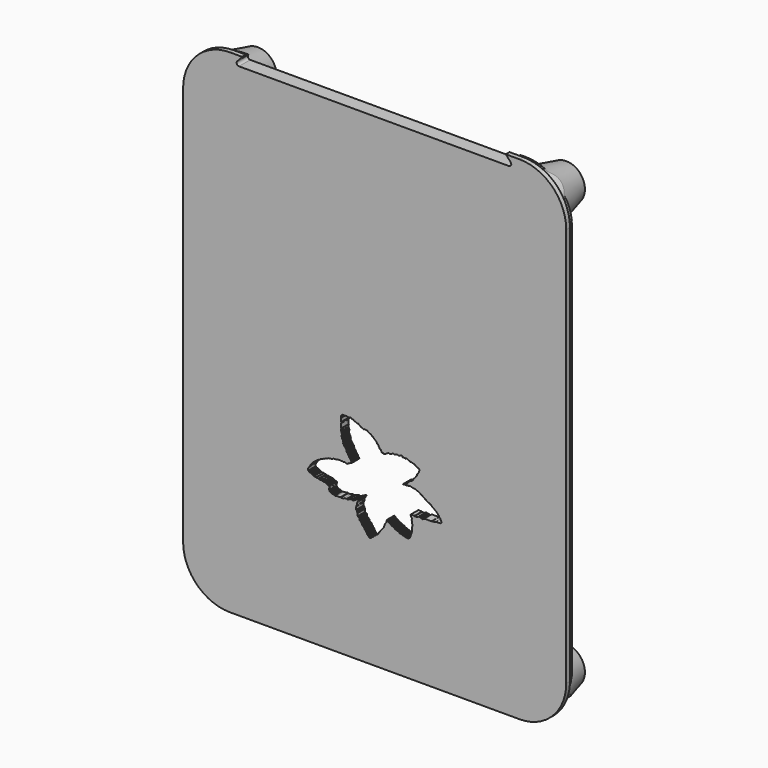
from build123d import *

# Parameters (mm, degrees)
EXTRUDE012_DEPTH  = 25
FILLET037_R       = 2
FILLET038_R       = 0.5
BOX028_W          = 80
BOX028_H          = 10
BOX028_DEPTH      = 103.5
FILLET033_R       = 10
BOX029_W          = 82
BOX029_H          = 10
BOX029_DEPTH      = 105.5
FILLET034_R       = 10
EXTRUDE010_DEPTH  = 2
BOX030_W          = 3
BOX030_H          = 10
BOX030_DEPTH      = 1.25
BOX031_W          = 3
BOX031_H          = 10
BOX031_DEPTH      = 1.75
EXTRUDE008_DEPTH  = 2
EXTRUDE009_DEPTH  = 2
CYLINDER060_R     = 1.75
CYLINDER060_DEPTH = 60
CYLINDER061_R     = 1.75
CYLINDER061_DEPTH = 60
CYLINDER062_R     = 1.75
CYLINDER062_DEPTH = 60
CYLINDER059_R     = 1.75
CYLINDER059_DEPTH = 60
BOX027_W          = 77
BOX027_H          = 2
BOX027_DEPTH      = 100.5
FILLET031_R       = 10
BOX026_W          = 80
BOX026_H          = 2
BOX026_DEPTH      = 103.5
FILLET030_R       = 10
FILLET032_R       = 0.25
BOX023_W          = 82
BOX023_H          = 2
BOX023_DEPTH      = 105.5
FILLET024_R       = 10


with BuildPart() as capcuttop:
    # Sketch015 → Extrude012 (new body)
    with BuildSketch(Plane.XZ):
        Polygon((10.846248, 101.175052), (8.846248, 98.925052), (68.846248, 98.925052), (66.846248, 101.175052), align=None)
    extrude(amount=EXTRUDE012_DEPTH)


with BuildPart() as capcuttop_1:
    # Extrude012 placement: moved
    add(capcuttop.part.moved(Location((0.5, -6.5, 0))))

    # Fillet037
    fillet037_edges = [capcuttop_1.edges().sort_by_distance(p)[0] for p in [
        (10.346248, -6.5, 100.050052),
        (68.346248, -6.5, 100.050052),
    ]]
    fillet(fillet037_edges, radius=FILLET037_R)

    # Fillet038
    fillet038_edges = [capcuttop_1.edges().sort_by_distance(p)[0] for p in [
        (9.346248, -20, 98.925052),
        (69.346248, -20, 98.925052),
    ]]
    fillet(fillet038_edges, radius=FILLET038_R)


with BuildPart() as capcuttop_2:
    # Fillet038 placement: moved
    add(capcuttop_1.part.moved(Location((-0.5, 4.5, -11.18))))


with BuildPart() as obj1:
    # Box028 → Box028 (new body)
    with BuildSketch(Plane(origin=(-1, -26, -14.75), x_dir=(1, 0, 0), z_dir=(0, 0, 1))):
        with Locations((40, 5)):
            Rectangle(BOX028_W, BOX028_H)
    extrude(amount=BOX028_DEPTH)

    # Fillet033
    fillet033_edges = [obj1.edges().sort_by_distance(p)[0] for p in [
        (-1, -21, 88.75),
        (-1, -21, -14.75),
        (79, -21, 88.75),
        (79, -21, -14.75),
    ]]
    fillet(fillet033_edges, radius=FILLET033_R)


with BuildPart() as obj1_1:
    # Fillet033 placement: moved
    add(obj1.part.moved(Location((0, 0.5, 0))))


with BuildPart() as topcut:
    # Box029 → Box029 (new body)
    with BuildSketch(Plane(origin=(-2, -27, -15.75), x_dir=(1, 0, 0), z_dir=(0, 0, 1))):
        with Locations((41, 5)):
            Rectangle(BOX029_W, BOX029_H)
    extrude(amount=BOX029_DEPTH)

    # Fillet034
    fillet034_edges = [topcut.edges().sort_by_distance(p)[0] for p in [
        (-2, -22, 89.75),
        (-2, -22, -15.75),
        (80, -22, 89.75),
        (80, -22, -15.75),
    ]]
    fillet(fillet034_edges, radius=FILLET034_R)


with BuildPart() as topcut_1:
    # Fillet034 placement: moved
    add(topcut.part.moved(Location((0, 1.5, 0))))

    # Cut009: cut obj1
    add(obj1_1.part, mode=Mode.SUBTRACT)


with BuildPart() as logocuttop:
    # Sketch013 → Extrude010 (new body)
    with BuildSketch(Plane.XZ):
        Polygon((35.718899, 14.46768), (35.541523, 14.282366), (35.541523, 14.207885), (35.453289, 14.134218), (35.458279, 14.061839), (35.319538, 13.921635), (35.319538, 13.852995), (35.247978, 13.797498), (35.247978, 13.657295), (35.182514, 13.591213), (35.182514, 13.264672), (35.09935, 13.159025), (35.09935, 13.045871), (35.033642, 12.956543), (35.033642, 12.34891), (35.100822, 12.34891), (35.100822, 12.210164), (35.170921, 12.207246), (35.170921, 11.994762), (35.235928, 11.994762), (35.235928, 11.918059), (35.300144, 11.918059), (35.300144, 11.840232), (35.367466, 11.840232), (35.367466, 11.243261), (35.435009, 11.243261), (35.435009, 11.172728), (35.509796, 11.172728), (35.509796, 11.102627), (35.655842, 11.102627), (35.655842, 11.025223), (35.712799, 11.025223), (35.712799, 10.768185), (35.775574, 10.768063), (35.775574, 10.564438), (35.845959, 10.564438), (35.845959, 10.476691), (35.987968, 10.476691), (35.987968, 10.422847), (36.120129, 10.422847), (36.120129, 10.290686), (36.19257, 10.290686), (36.19257, 10.158525), (36.253265, 10.158525), (36.253265, 10.089742), (36.31789, 10.089742), (36.31789, 9.887097), (36.38879, 9.887097), (36.38879, 9.735032), (36.451588, 9.735032), (36.451588, 9.656166), (36.670654, 9.656166), (36.670654, 9.588986), (36.733456, 9.588986), (36.733456, 9.511584), (36.794792, 9.511584), (36.794792, 9.403511), (36.866356, 9.403511), (36.866356, 9.248704), (36.929153, 9.248704), (36.929153, 9.182982), (37.003635, 9.182982), (37.003635, 9.121215), (37.06601, 9.121215), (37.06601, 8.981222), (37.136494, 8.981222), (37.136494, 8.856171), (37.211735, 8.856171), (37.211735, 8.77808), (37.275997, 8.777898), (37.275997, 8.708389), (37.347462, 8.708389), (37.347462, 8.586019), (37.411095, 8.586019), (37.411095, 8.502716), (37.477772, 8.502716), (37.477772, 8.378516), (37.549984, 8.378516), (37.549984, 8.295938), (37.62376, 8.295938), (37.62376, 8.208313), (37.695324, 8.211234), (37.695324, 8.14022), (37.753563, 8.144136), (37.757423, 8.06459), (37.818073, 8.06459), (37.82164, 7.989674), (38.102516, 7.989674), (38.191708, 8.080424), (38.241653, 8.085775), (38.455708, 8.323022), (38.523491, 8.323022), (38.588669, 8.403136), (38.677258, 8.403136), (39.064339, 8.80818), (39.151966, 8.80818), (39.535454, 9.198032), (39.631844, 9.198032), (39.79203, 9.38195), (39.788441, 9.456085), (39.977173, 9.634459), (39.977173, 9.725333), (40.169685, 9.919039), (40.174648, 9.995584), (40.238758, 10.060343), (40.242348, 10.126106), (40.594769, 10.479335), (40.594769, 10.549882), (40.670101, 10.618037), (40.658142, 10.652713), (40.698799, 10.652713), (40.93169, 10.887704), (40.93169, 10.959214), (41.013603, 11.040468), (41.006752, 11.164798), (41.07626, 11.227451), (41.072342, 11.297937), (41.149967, 11.382103), (41.149967, 11.57235), (41.231716, 11.635139), (41.215462, 11.771651), (41.283718, 11.843158), (41.27858, 11.869847), (41.31382, 11.869847), (41.545475, 12.104514), (41.561829, 12.430472), (41.62772, 12.504983), (41.62772, 12.610834), (41.691978, 12.539269), (41.767921, 12.539269), (41.767921, 12.451643), (41.833641, 12.454563), (41.833641, 12.390304), (41.89352, 12.390304), (41.89352, 12.317281), (41.95924, 12.321663), (41.965084, 12.2501), (42.023502, 12.255942), (42.026421, 12.18292), (42.106747, 12.188762), (42.106747, 12.114279), (42.242569, 12.12158), (42.242569, 12.041256), (42.44265, 12.041256), (42.449951, 11.95655), (42.522976, 11.963852), (42.527355, 11.89521), (42.593075, 11.901052), (42.593075, 11.847015), (42.645653, 11.849936), (42.645653, 11.788598), (42.784397, 11.788598), (42.784397, 11.713079), (43.064156, 11.713079), (43.064156, 11.635675), (43.198517, 11.635675), (43.198517, 11.571416), (43.261314, 11.571416), (43.261314, 11.508616), (43.328495, 11.508616), (43.328495, 11.432673), (43.391296, 11.437055), (43.3932, 11.371733), (43.743572, 11.371733), (43.743572, 11.302058), (43.809788, 11.302058), (43.813377, 11.228464), (44.023823, 11.228464), (44.023823, 11.160309), (44.154156, 11.160309), (44.15057, 11.092153), (44.284489, 11.100523), (44.284489, 11.027584), (44.35384, 11.031171), (44.35384, 10.953449), (44.492542, 10.953449), (44.492542, 10.906579), (44.840462, 10.906579), (44.840462, 10.822741), (44.96711, 10.824525), (44.96711, 10.749605), (45.238247, 10.749605), (45.238247, 10.678252), (45.438034, 10.678252), (45.438034, 10.617603), (45.857227, 10.617603), (45.857227, 10.548035), (46.271069, 10.548035), (46.571186, 10.875965), (46.567978, 10.953712), (46.651337, 11.038672), (46.651337, 11.216198), (46.753532, 11.316969), (46.746231, 11.435266), (46.817791, 11.514131), (46.808098, 11.635964), (46.891933, 11.728722), (46.891933, 11.914238), (46.970421, 12.010563), (46.970421, 13.014699), (47.143505, 13.195651), (47.143505, 13.581231), (47.023247, 13.581231), (47.023247, 13.968016), (46.938736, 13.981017), (46.938736, 14.192286), (46.860729, 14.189036), (46.860729, 14.276794), (46.974491, 14.400306), (46.984241, 14.647329), (46.867229, 14.660331), (46.867229, 14.806594), (46.798973, 14.813095), (46.795723, 14.884602), (46.737217, 14.891102), (46.750221, 15.069869), (46.65921, 15.076369), (46.65921, 15.209634), (46.753471, 15.281138), (47.549793, 15.281138), (47.549793, 15.2015), (48.132637, 15.2015), (48.191463, 15.28865), (48.281113, 15.28865), (48.404625, 15.419374), (48.65118, 15.419374), (48.65118, 15.332224), (48.908421, 15.332224), (48.908421, 15.264683), (49.113075, 15.264683), (49.113075, 15.170997), (49.344021, 15.170997), (49.431721, 15.277888), (49.512978, 15.271388), (49.63649, 15.417651), (51.160881, 15.417651), (51.27129, 15.474693), (51.870747, 15.474693), (51.950146, 15.550121), (52.061306, 15.550121), (52.156582, 15.633491), (53.077606, 15.633491), (53.255665, 15.808167), (53.255665, 16.103029), (53.195786, 16.103029), (53.195786, 16.304571), (53.130066, 16.301651), (53.130066, 16.440393), (53.059383, 16.440393), (53.055817, 16.517097), (52.977329, 16.517097), (52.977329, 16.645531), (52.92189, 16.645212), (52.92189, 16.714565), (52.854931, 16.714565), (52.853485, 16.786308), (52.786774, 16.786308), (52.786774, 16.921133), (52.715031, 16.921133), (52.715031, 16.980015), (52.645679, 16.980015), (52.645679, 17.036612), (52.576344, 17.036612), (52.576344, 17.128033), (52.514656, 17.128033), (52.514656, 17.269503), (52.450245, 17.264694), (52.445438, 17.336029), (52.379711, 17.338432), (52.382919, 17.40576), (52.317997, 17.402554), (52.317997, 17.471485), (52.245056, 17.471485), (52.245056, 17.536407), (52.183342, 17.538813), (52.183342, 17.607742), (52.11441, 17.607742), (52.11441, 17.674112), (52.04953, 17.674112), (52.04953, 17.749495), (51.901703, 17.749495), (51.901703, 17.809212), (51.835133, 17.809212), (51.835133, 17.891068), (51.763939, 17.891068), (51.763939, 17.962631), (51.6325, 17.962631), (51.6325, 18.028351), (51.484993, 18.028351), (51.484993, 18.071099), (51.416344, 18.071099), (51.416344, 18.158726), (51.28783, 18.158726), (51.28783, 18.227497), (51.223164, 18.227497), (51.226749, 18.292067), (51.152615, 18.292067), (51.152615, 18.366201), (51.084457, 18.360224), (51.084457, 18.442408), (51.022175, 18.442408), (51.022175, 18.51376), (50.816917, 18.51376), (50.787827, 18.602642), (50.749416, 18.611338), (50.739666, 18.673094), (50.541397, 18.653591), (50.538147, 18.7381), (50.411385, 18.721848), (50.395134, 18.793356), (50.333378, 18.793356), (50.336628, 18.83886), (50.206615, 18.83886), (50.209866, 18.920118), (50.125355, 18.926619), (50.115604, 19.004627), (49.998592, 18.994875), (49.992092, 19.085884), (49.936836, 19.050131), (49.920586, 19.15089), (49.797073, 19.128138), (49.806824, 19.202896), (49.728817, 19.189894), (49.719067, 19.258152), (49.660561, 19.264652), (49.65406, 19.332909), (49.602055, 19.332909), (49.598804, 19.407665), (49.462292, 19.394665), (49.462292, 19.472673), (49.254269, 19.453171), (49.254269, 19.527927), (49.199017, 19.527927), (49.199017, 19.618937), (49.06575, 19.605936), (49.0495, 19.661192), (48.990993, 19.65469), (48.984493, 19.735949), (48.857731, 19.726198), (48.857731, 19.814875), (48.774307, 19.806892), (48.774307, 19.889387), (48.585365, 19.889387), (48.585365, 19.953255), (48.441666, 19.953255), (48.441666, 20.011799), (48.375137, 20.011799), (48.375137, 20.088972), (48.303288, 20.088972), (48.303288, 20.152439), (48.091629, 20.152439), (48.091629, 20.233053), (47.891182, 20.233053), (47.891182, 20.296238), (47.686378, 20.296238), (47.686378, 20.368135), (47.289845, 20.368135), (47.289845, 20.43132), (47.009361, 20.43132), (47.009361, 20.503252), (46.726452, 20.503252), (46.726452, 20.562277), (46.319454, 20.562277), (46.230366, 20.478048), (45.840324, 20.478048), (45.758091, 20.39875), (45.684677, 20.39875), (45.684677, 20.475716), (45.235325, 20.475716), (45.151131, 20.396421), (45.039009, 20.39053), (45.127117, 20.498037), (45.167179, 20.498037), (45.258625, 20.560472), (45.324154, 20.560472), (45.40086, 20.646095), (45.522079, 20.646095), (45.614918, 20.704962), (45.804161, 20.704962), (45.991524, 20.88978), (45.991524, 20.958969), (46.058052, 21.020176), (46.052731, 21.089365), (46.212399, 21.246374), (46.276268, 21.227745), (46.505127, 21.448622), (46.584961, 21.453943), (46.69939, 21.602968), (46.824467, 21.584341), (46.901638, 21.685465), (46.965508, 21.656191), (47.205029, 21.875372), (47.205029, 22.071066), (47.263447, 22.071066), (47.620766, 22.445816), (47.620766, 22.517715), (47.821213, 22.718163), (47.834286, 22.79442), (48.047806, 22.997047), (48.047806, 23.136488), (48.099777, 23.217297), (48.099777, 23.280226), (48.302563, 23.487822), (48.302563, 23.552746), (48.36348, 23.623281), (48.36348, 23.687403), (48.433277, 23.751019), (48.442898, 23.812735), (48.515835, 23.896896), (48.515835, 23.966629), (48.570408, 24.037157), (48.570408, 24.298864), (48.516617, 24.298864), (48.516617, 24.388639), (48.434689, 24.388639), (48.434689, 24.454361), (48.316391, 24.454361), (48.316391, 24.525925), (48.230221, 24.525925), (48.230221, 24.593107), (48.027225, 24.593107), (48.027225, 24.657965), (47.882542, 24.657965), (47.882542, 24.729708), (47.81797, 24.729708), (47.81797, 24.787104), (47.68539, 24.787104), (47.68539, 24.86857), (47.557655, 24.86857), (47.557655, 24.935099), (47.475163, 24.935099), (47.475163, 25.014933), (47.361641, 25.009611), (47.361641, 25.07608), (46.949162, 25.07608), (46.949162, 25.150652), (46.591202, 25.150652), (46.591202, 25.220518), (46.389084, 25.220518), (46.389084, 25.276093), (46.207756, 25.276093), (46.207756, 25.358332), (46.124542, 25.358332), (46.122585, 25.418051), (45.988461, 25.418051), (45.979652, 25.497349), (45.785812, 25.497349), (45.685574, 25.395668), (45.594063, 25.395668), (45.583168, 25.476282), (44.974319, 25.476282), (44.968967, 25.566429), (44.902966, 25.566429), (44.904747, 25.643135), (44.82626, 25.643135), (44.819126, 25.705568), (44.615768, 25.705568), (44.523087, 25.619965), (44.444221, 25.619965), (44.370571, 25.546461), (44.204983, 25.546461), (44.12701, 25.493286), (44.013416, 25.493286), (43.990696, 25.591335), (43.674233, 25.591335), (43.586246, 25.508556), (43.391811, 25.508556), (43.300835, 25.416777), (43.130672, 25.416777), (43.130672, 25.490137), (42.781864, 25.490137), (42.61866, 25.342373), (42.543289, 25.342373), (42.506077, 25.28755), (42.426197, 25.28755), (42.378296, 25.260221), (42.303783, 25.260221), (42.226608, 25.185709), (42.161431, 25.185709), (42.161431, 25.233937), (42.098145, 25.233937), (42.098145, 25.274895), (41.828949, 25.274895), (41.602402, 25.080458), (41.49918, 25.094694), (41.361584, 24.946669), (41.281311, 24.925262), (41.203789, 24.852528), (41.110649, 24.847206), (41.062748, 24.791321), (40.990898, 24.783337), (40.940334, 24.740759), (40.940334, 24.804626), (40.897755, 24.80995), (40.897755, 24.895105), (40.701466, 24.895105), (40.599705, 24.801966), (40.599705, 24.87343), (40.53611, 24.87343), (40.53611, 24.944593), (40.458942, 24.944593), (40.458942, 25.177189), (40.384151, 25.177189), (40.384151, 25.344843), (40.320286, 25.344843), (40.320286, 25.412889), (40.258034, 25.412889), (40.258034, 25.482862), (40.070133, 25.482862), (40.070133, 25.642193), (39.956711, 25.642193), (39.956711, 25.77249), (39.909332, 25.77249), (39.909332, 25.873173), (39.844181, 25.873173), (39.844181, 25.938322), (39.784958, 25.950167), (39.784958, 26.068619), (39.7435, 26.068619), (39.7435, 26.181149), (39.675972, 26.181149), (39.675972, 26.221079), (39.488827, 26.221079), (39.491928, 26.297434), (39.446896, 26.297434), (39.446896, 26.432724), (39.383801, 26.432724), (39.383801, 26.575779), (39.312271, 26.575779), (39.312271, 26.630981), (39.232861, 26.630981), (39.232861, 26.707506), (39.171879, 26.707506), (39.171879, 26.781641), (39.023434, 26.781641), (39.023434, 26.867794), (38.956253, 26.867794), (38.956253, 26.93351), (38.896378, 26.93351), (38.896378, 26.994316), (38.843925, 26.994316), (38.843925, 27.052738), (38.775284, 27.052738), (38.775284, 27.119919), (38.702263, 27.119919), (38.702263, 27.193909), (38.649689, 27.193909), (38.649689, 27.274725), (38.523449, 27.274725), (38.523449, 27.318283), (38.440533, 27.318283), (38.440533, 27.398621), (38.367786, 27.398621), (38.367786, 27.469103), (38.294361, 27.469103), (38.294361, 27.531633), (38.223049, 27.531633), (38.223049, 27.595026), (38.001038, 27.595026), (38.001038, 27.671776), (37.874355, 27.671776), (37.874355, 27.748657), (37.822536, 27.748657), (37.822536, 27.798656), (37.684376, 27.798656), (37.684376, 27.885788), (37.556133, 27.885788), (37.556133, 27.943548), (37.416142, 27.943548), (37.416142, 28.040842), (37.072414, 28.040842), (37.078339, 28.117832), (36.817745, 28.117832), (36.699291, 28.023069), (36.563072, 28.023069), (36.563072, 28.088219), (36.480156, 28.088219), (36.480156, 28.152889), (36.321247, 28.152889), (36.321247, 28.215317), (36.053677, 28.215317), (36.053677, 28.272696), (35.983429, 28.272696), (35.983429, 28.351612), (35.921249, 28.351612), (35.921249, 28.439869), (35.843311, 28.439869), (35.843311, 28.501267), (35.706356, 28.501267), (35.706356, 28.515002), (35.638981, 28.515002), (35.638981, 28.577382), (35.565907, 28.577382), (35.565907, 28.73378), (35.36079, 28.73378), (35.290936, 28.637341), (35.220833, 28.637341), (35.220833, 28.756992), (35.093052, 28.756992), (35.093052, 28.832311), (34.887554, 28.832311), (34.887554, 28.892927), (34.716961, 28.892927), (34.716961, 28.980556), (34.559227, 28.980556), (34.559227, 29.037516), (34.427784, 29.037516), (34.427784, 29.125145), (34.210171, 29.125145), (34.218933, 29.176262), (34.078728, 29.176262), (34.078728, 29.265045), (33.944576, 29.2544), (33.944576, 29.343014), (33.711773, 29.343014), (33.61459, 29.256821), (33.141857, 29.256821), (33.141857, 29.315647), (32.076454, 29.315647), (31.765314, 28.982376), (31.765314, 28.628082), (31.839945, 28.628082), (31.839945, 27.865322), (31.891548, 27.865322), (31.891548, 27.677475), (31.827494, 27.592972), (31.827494, 26.647865), (31.895439, 26.647865), (31.895439, 26.565863), (31.772501, 26.44436), (31.772501, 26.089201), (31.83824, 26.089201), (31.83824, 26.028713), (31.901457, 26.028713), (31.901457, 25.739143), (31.96446, 25.739143), (31.96446, 25.478312), (31.895693, 25.37155), (31.895693, 25.018585), (31.982845, 25.005512), (31.971951, 24.807241), (32.056923, 24.802883), (32.061237, 24.709053), (32.108227, 24.71199), (32.108227, 24.573952), (32.177738, 24.578846), (32.177738, 24.375216), (32.262909, 24.383047), (32.262909, 24.228365), (32.348083, 24.241091), (32.348083, 24.181396), (32.384247, 24.181396), (32.226311, 24.034906), (32.226311, 23.846039), (32.327164, 23.846039), (32.327164, 23.745155), (32.393482, 23.745155), (32.393482, 23.608639), (32.455242, 23.608639), (32.455242, 23.54038), (32.523499, 23.54038), (32.523499, 23.46562), (32.595009, 23.46562), (32.595009, 23.394112), (32.653515, 23.394112), (32.653515, 23.319353), (32.705521, 23.319353), (32.705521, 23.247845), (32.803032, 23.247845), (32.803032, 23.146286), (32.859138, 23.146286), (32.859138, 23.011921), (32.928429, 23.011921), (32.928429, 22.729242), (32.997173, 22.729242), (32.997173, 22.593899), (33.055977, 22.593899), (33.055977, 22.443735), (33.128941, 22.443735), (33.128941, 22.379166), (33.197094, 22.379166), (33.197094, 22.319378), (33.267643, 22.319378), (33.267643, 22.261986), (33.331017, 22.261986), (33.331017, 22.122084), (33.396149, 22.122084), (33.396149, 22.061398), (33.451099, 22.061398), (33.451099, 21.931948), (33.530018, 21.931948), (33.530018, 21.709543), (33.604153, 21.709543), (33.604153, 21.638189), (33.674129, 21.638189), (33.674129, 21.559788), (33.742256, 21.559788), (33.742256, 21.518885), (33.812492, 21.518885), (33.812492, 21.36344), (33.880646, 21.36344), (33.880646, 21.20443), (33.943626, 21.20443), (33.943626, 21.133358), (33.996929, 21.133358), (33.996929, 21.056364), (34.056156, 21.056364), (34.056156, 20.991217), (34.168686, 20.991217), (34.168686, 20.943834), (34.12933, 20.885019), (34.04998, 20.885019), (33.991467, 20.804066), (33.920933, 20.804066), (33.853607, 20.729525), (33.748608, 20.729525), (33.701317, 20.65819), (33.550632, 20.65819), (33.508953, 20.626902), (33.432919, 20.626902), (33.389874, 20.533438), (33.315815, 20.533438), (33.164173, 20.397778), (32.884007, 20.397778), (32.884007, 20.464243), (32.644164, 20.464243), (32.644164, 20.548196), (32.501358, 20.548196), (32.408383, 20.477768), (32.192522, 20.477768), (32.192522, 20.542854), (30.940947, 20.542854), (30.863501, 20.479611), (30.789047, 20.479611), (30.71211, 20.420425), (30.123795, 20.420425), (29.896198, 20.203272), (29.374741, 20.203272), (29.286091, 20.132448), (29.038095, 20.132448), (28.963665, 20.071949), (28.888712, 20.071949), (28.799313, 19.963795), (28.663095, 19.963795), (28.603872, 19.886803), (28.420275, 19.886803), (28.371716, 19.817968), (28.260368, 19.817968), (28.212685, 19.734266), (28.064926, 19.734266), (28.053082, 19.666412), (27.919445, 19.666412), (27.86064, 19.585363), (27.73827, 19.585363), (27.658723, 19.513296), (27.563962, 19.513296), (27.530447, 19.438295), (27.443068, 19.438295), (27.413456, 19.389317), (27.300928, 19.389317), (27.146944, 19.193874), (27.04034, 19.193874), (26.984272, 19.106859), (26.887625, 19.106859), (26.776731, 18.979958), (26.70945, 18.979958), (26.567394, 18.842121), (26.498148, 18.842121), (26.373112, 18.692242), (26.291771, 18.692242), (26.110294, 18.496042), (26.021675, 18.496042), (25.655807, 18.110409), (25.655807, 18.024601), (25.314939, 17.715427), (25.314939, 17.617037), (25.145149, 17.452669), (25.145149, 17.387522), (25.039364, 17.275629), (25.039364, 17.215769), (24.902328, 17.091398), (24.902328, 17.009195), (24.822153, 16.940964), (24.822153, 16.883734), (24.764392, 16.846355), (24.764392, 16.406254), (24.843103, 16.406254), (24.843103, 16.327398), (24.908251, 16.327398), (24.908251, 16.238562), (25.037262, 16.238562), (25.037262, 16.173374), (25.233824, 16.173374), (25.233824, 16.100048), (25.423496, 16.100048), (25.423496, 16.045763), (25.497328, 16.045763), (25.497328, 15.993148), (25.688643, 15.993148), (25.688643, 15.918973), (25.777077, 15.918973), (25.777077, 15.84764), (25.844, 15.84764), (25.844, 15.779046), (25.979591, 15.779046), (25.979591, 15.711283), (26.516104, 15.711283), (26.516104, 15.635341), (27.035931, 15.635341), (27.035931, 15.563913), (27.110533, 15.563913), (27.110533, 15.488981), (27.586786, 15.488981), (27.586786, 15.425115), (28.049467, 15.425115), (28.049467, 15.351018), (28.486454, 15.351018), (28.486454, 15.286686), (28.736416, 15.286686), (28.736416, 15.142755), (28.816248, 15.142755), (28.816248, 15.071685), (28.966093, 15.071685), (28.966093, 15.020256), (29.387646, 15.020256), (29.387646, 14.913298), (29.322334, 14.854303), (29.322334, 14.616716), (29.240091, 14.53278), (29.240091, 14.183903), (29.313587, 14.183903), (29.313587, 14.05249), (29.377653, 14.05249), (29.377653, 13.994695), (29.454252, 13.994695), (29.454252, 13.925272), (29.597086, 13.925272), (29.597086, 13.83451), (29.713264, 13.83451), (29.713264, 13.769302), (29.857407, 13.769302), (29.857407, 13.697382), (30.132249, 13.697382), (30.132249, 13.645007), (30.333673, 13.645007), (30.333673, 13.593915), (30.437935, 13.593915), (30.437935, 13.517086), (30.819857, 13.517086), (30.897429, 13.583426), (31.454142, 13.583426), (31.535494, 13.651449), (31.731357, 13.651449), (31.731357, 13.564854), (32.29063, 13.564854), (32.363811, 13.628468), (32.445625, 13.628468), (32.473126, 13.715159), (32.866402, 13.715159), (32.956059, 13.750973), (33.003437, 13.750973), (33.019058, 13.705232), (33.372482, 13.705232), (33.430191, 13.800612), (33.49752, 13.800612), (33.556831, 13.863129), (33.70229, 13.863129), (33.777252, 13.928054), (33.915497, 13.928054), (33.986568, 13.970104), (34.134628, 13.970104), (34.163822, 13.892329), (34.454445, 13.892329), (34.519592, 13.964182), (34.620274, 13.964182), (34.834045, 14.161496), (34.934726, 14.161496), (35.03423, 14.274076), (35.111222, 14.274076), (35.206596, 14.335441), (35.275475, 14.335441), (35.329395, 14.40677), (35.396576, 14.403849), (35.465218, 14.46768), align=None)
    extrude(amount=EXTRUDE010_DEPTH)


with BuildPart() as logocuttop_1:
    # Extrude010 placement: moved
    add(logocuttop.part.moved(Location((0, -24.5, 0))))


with BuildPart() as cube029:
    # Box030 → Box030 (new body)
    with BuildSketch(Plane(origin=(9.5, -19.75, -7), x_dir=(0, 0, 1), z_dir=(-1, 0, 0))):
        with Locations((1.5, 5)):
            Rectangle(BOX030_W, BOX030_H)
    extrude(amount=BOX030_DEPTH)


with BuildPart() as topcuts:
    # Box031 → Box031 (new body)
    with BuildSketch(Plane(origin=(5.25, -23.75, -5.25), x_dir=(0, 0, 1), z_dir=(-1, 0, 0))):
        with Locations((1.5, 5)):
            Rectangle(BOX031_W, BOX031_H)
    extrude(amount=BOX031_DEPTH)

    # Fusion047: union Cube029
    add(cube029.part)


with BuildPart() as m3nutcut:
    # Sketch010 → Extrude008 (new body)
    with BuildSketch(Plane.XZ):
        Polygon((3, -10.767949), (6, -12.5), (9, -10.767949), (9, -0.98215), (3, -0.98215), align=None)
    extrude(amount=EXTRUDE008_DEPTH)


with BuildPart() as m3nutcut_1:
    # Extrude008 placement: moved
    add(m3nutcut.part.moved(Location((0, -19.75, 0))))


with BuildPart() as fusion045:
    # Sketch011 → Extrude009 (new body)
    with BuildSketch(Plane.XZ):
        Polygon((3, -10.767949), (6, -12.5), (9, -10.767949), (9, -0.98215), (3, -0.98215), align=None)
    extrude(amount=EXTRUDE009_DEPTH)


with BuildPart() as fusion045_1:
    # Extrude009 placement: moved
    add(fusion045.part.moved(Location((66, -19.75, 0))))

    # Fusion045: union m3NutCut
    add(m3nutcut_1.part)


with BuildPart() as m3nutcutsbottom:
    # Part__Mirroring009: instance of Fusion045
    add(fusion045_1.part.mirror(Plane(origin=(0, 0, 0), x_dir=(0, 1, 0), z_dir=(0, 0, 1))))


with BuildPart() as m3nutcutsbottom_1:
    # Part__Mirroring009 placement: moved
    add(m3nutcutsbottom.part.moved(Location((0, 0, 73))))

    # Fusion046: union Fusion045
    add(fusion045_1.part)


with BuildPart() as m3holds028:
    # Cylinder060 → Cylinder060 (new body)
    with BuildSketch(Plane(origin=(6, 24, -9), x_dir=(1, 0, 0), z_dir=(0, -1, 0))):
        Circle(CYLINDER060_R)
    extrude(amount=CYLINDER060_DEPTH)


with BuildPart() as m3holds029:
    # Cylinder061 → Cylinder061 (new body)
    with BuildSketch(Plane(origin=(72, 24, 82), x_dir=(1, 0, 0), z_dir=(0, -1, 0))):
        Circle(CYLINDER061_R)
    extrude(amount=CYLINDER061_DEPTH)


with BuildPart() as m3holds030:
    # Cylinder062 → Cylinder062 (new body)
    with BuildSketch(Plane(origin=(6, 24, 82), x_dir=(1, 0, 0), z_dir=(0, -1, 0))):
        Circle(CYLINDER062_R)
    extrude(amount=CYLINDER062_DEPTH)


with BuildPart() as m3cuts003:
    # Cylinder059 → Cylinder059 (new body)
    with BuildSketch(Plane(origin=(72, 24, -9), x_dir=(1, 0, 0), z_dir=(0, -1, 0))):
        Circle(CYLINDER059_R)
    extrude(amount=CYLINDER059_DEPTH)

    # Fusion075: union m3Holds028, m3Holds029, m3Holds030
    add(m3holds028.part)
    add(m3holds029.part)
    add(m3holds030.part)


with BuildPart() as m3cuts003_1:
    # Fusion075 placement: moved
    add(m3cuts003.part.moved(Location((0, 11.5, 0))))

    # Fusion076: union capCutTop, topCut, LogoCutTop, topCuts, m3NutCutsBottom
    add(capcuttop_2.part)
    add(topcut_1.part)
    add(logocuttop_1.part)
    add(topcuts.part)
    add(m3nutcutsbottom_1.part)


with BuildPart() as obj2:
    # Box027 → Box027 (new body)
    with BuildSketch(Plane(origin=(0.5, -26, -13.25), x_dir=(1, 0, 0), z_dir=(0, 0, 1))):
        with Locations((38.5, 1)):
            Rectangle(BOX027_W, BOX027_H)
    extrude(amount=BOX027_DEPTH)

    # Fillet031
    fillet031_edges = [obj2.edges().sort_by_distance(p)[0] for p in [
        (0.5, -25, 87.25),
        (0.5, -25, -13.25),
        (77.5, -25, 87.25),
        (77.5, -25, -13.25),
    ]]
    fillet(fillet031_edges, radius=FILLET031_R)


with BuildPart() as obj2_1:
    # Fillet031 placement: moved
    add(obj2.part.moved(Location((0, 0.5, 0))))


with BuildPart() as ridge:
    # Box026 → Box026 (new body)
    with BuildSketch(Plane(origin=(-1, -26, -14.75), x_dir=(1, 0, 0), z_dir=(0, 0, 1))):
        with Locations((40, 1)):
            Rectangle(BOX026_W, BOX026_H)
    extrude(amount=BOX026_DEPTH)

    # Fillet030
    fillet030_edges = [ridge.edges().sort_by_distance(p)[0] for p in [
        (-1, -25, 88.75),
        (-1, -25, -14.75),
        (79, -25, 88.75),
        (79, -25, -14.75),
    ]]
    fillet(fillet030_edges, radius=FILLET030_R)


with BuildPart() as ridge_1:
    # Fillet030 placement: moved
    add(ridge.part.moved(Location((0, 0.5, 0))))

    # Cut008: cut obj2
    add(obj2_1.part, mode=Mode.SUBTRACT)

    # Fillet032
    fillet032_edges = [ridge_1.edges().sort_by_distance(p)[0] for p in [
        (-1, -23.5, 37),
        (1.928932, -23.5, -11.821068),
        (39, -23.5, -14.75),
        (76.071068, -23.5, -11.821068),
        (79, -23.5, 37),
        (1.928932, -23.5, 85.821068),
        (76.071068, -23.5, 85.821068),
        (39, -23.5, 88.75),
        (0.5, -23.5, 37),
        (3.428932, -23.5, 84.321068),
        (39, -23.5, 87.25),
        (74.571068, -23.5, 84.321068),
        (77.5, -23.5, 37),
        (74.571068, -23.5, -10.321068),
        (39, -23.5, -13.25),
        (3.428932, -23.5, -10.321068),
    ]]
    fillet(fillet032_edges, radius=FILLET032_R)


with BuildPart() as top:
    # Box023 → Box023 (new body)
    with BuildSketch(Plane(origin=(-2, -27, -15.75), x_dir=(1, 0, 0), z_dir=(0, 0, 1))):
        with Locations((41, 1)):
            Rectangle(BOX023_W, BOX023_H)
    extrude(amount=BOX023_DEPTH)

    # Fillet024
    fillet024_edges = [top.edges().sort_by_distance(p)[0] for p in [
        (-2, -26, 89.75),
        (-2, -26, -15.75),
        (80, -26, 89.75),
        (80, -26, -15.75),
    ]]
    fillet(fillet024_edges, radius=FILLET024_R)


with BuildPart() as top_1:
    # Fillet024 placement: moved
    add(top.part.moved(Location((0, 0.5, 0))))


with BuildPart() as cone002:
    # Cone002 → Cone002 (revolve)
    with BuildSketch(Plane(origin=(6, -24.5, 82), x_dir=(-1, 0, 0), z_dir=(0, 0, -1))):
        Polygon((0, 0), (6, 0), (4, 8), (0, 8), align=None)
    revolve(axis=Axis((6, -24.5, 82), (0, 1, 0)))


with BuildPart() as cone003:
    # Cone003 → Cone003 (revolve)
    with BuildSketch(Plane(origin=(72, -24.5, -9), x_dir=(-1, 0, 0), z_dir=(0, 0, -1))):
        Polygon((0, 0), (6, 0), (4, 8), (0, 8), align=None)
    revolve(axis=Axis((72, -24.5, -9), (0, 1, 0)))


with BuildPart() as cone004:
    # Cone004 → Cone004 (revolve)
    with BuildSketch(Plane(origin=(72, -24.5, 82), x_dir=(-1, 0, 0), z_dir=(0, 0, -1))):
        Polygon((0, 0), (6, 0), (4, 8), (0, 8), align=None)
    revolve(axis=Axis((72, -24.5, 82), (0, 1, 0)))


with BuildPart() as cut017:
    # Cone001 → Cone001 (revolve)
    with BuildSketch(Plane(origin=(6, -24.5, -9), x_dir=(-1, 0, 0), z_dir=(0, 0, -1))):
        Polygon((0, 0), (6, 0), (4, 8), (0, 8), align=None)
    revolve(axis=Axis((6, -24.5, -9), (0, 1, 0)))

    # Fusion043: union Cone002, Cone003, Cone004
    add(cone002.part)
    add(cone003.part)
    add(cone004.part)

    # Fusion049: union top
    add(top_1.part)

    # Fusion050: union ridge
    add(ridge_1.part)

    # Cut017: cut m3Cuts003
    add(m3cuts003_1.part, mode=Mode.SUBTRACT)


with BuildPart() as cut017_1:
    # Cut017 placement: moved
    add(cut017.part.moved(Location((0, 1, 0))))


solid = cut017_1.part
